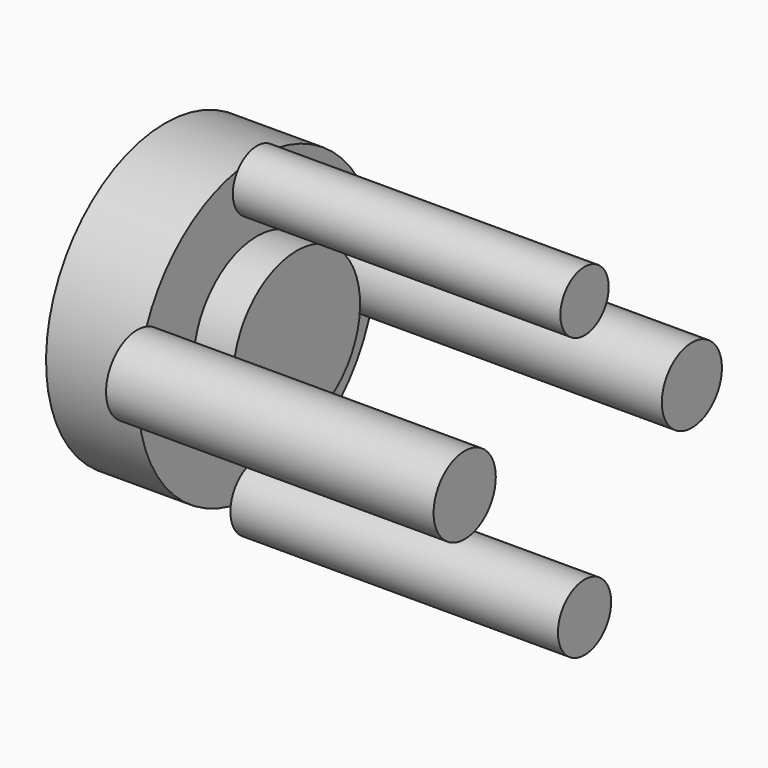
from build123d import *

# Parameters (mm, degrees)
F2_R     = 7.734325
F2_R_2   = 9.044999
F2_R_3   = 7.028051
F2_R_4   = 8.736696
F3_DEPTH = 76.2


with BuildPart() as f1:
    # F0 (on Front) → F1 (revolve)
    with BuildSketch(Plane.XZ):
        Polygon((0, 34.639813), (-21.368708, 34.639813), (-21.368708, 0), (9.222291, 0), (9.222291, 18.444577), (0, 18.444577), align=None)
    revolve(axis=Axis((-6.073209, 0, 0), (1, 0, 0)))

    # F2 (on Right) → F3 (join)
    with BuildSketch(Plane.YZ):
        with Locations((0, -34.850091)):
            Circle(F2_R)
        with Locations((-34.8488, 4.356261)):
            Circle(F2_R_2)
        with Locations((0, 29.912995)):
            Circle(F2_R_3)
        with Locations((31.21987, 0)):
            Circle(F2_R_4)
    extrude(amount=F3_DEPTH)


solid = f1.part
